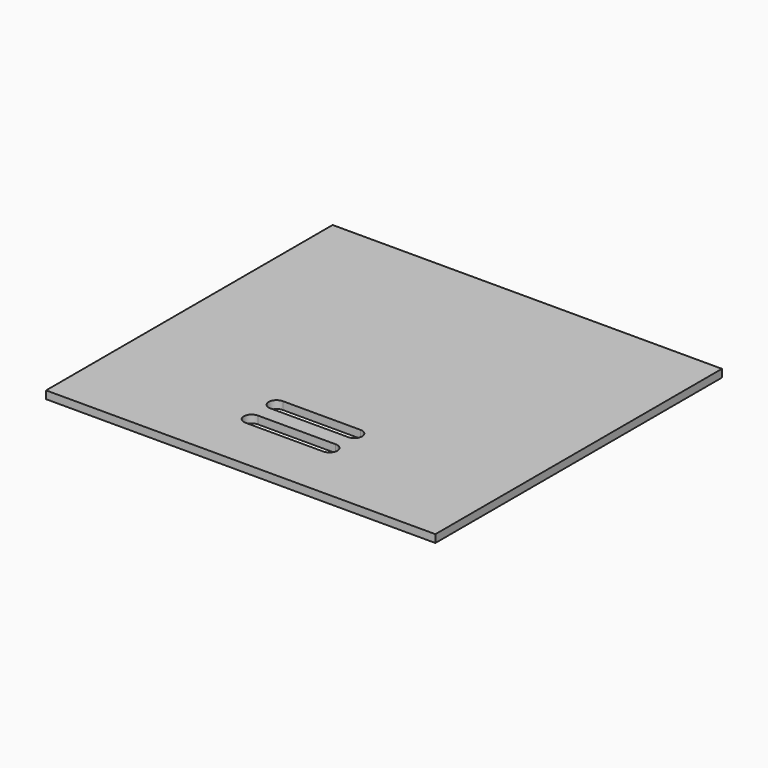
from build123d import *

# Parameters (mm, degrees)
F0_W     = 250
F0_H     = 230
F1_DEPTH = 5


with BuildPart() as f1:
    # F0 (on Top) → F1 (new body)
    with BuildSketch(Plane.XY):
        Rectangle(F0_W, F0_H)
        with BuildLine():
            ThreePointArc((-25, -80), (-30, -75), (-25, -70))
            Line((-25, -70), (25, -70))
            ThreePointArc((25, -70), (30, -75), (25, -80))
            Line((25, -80), (-25, -80))
        make_face(mode=Mode.SUBTRACT)
        with BuildLine():
            ThreePointArc((-25, -60), (-30, -55), (-25, -50))
            Line((-25, -50), (25, -50))
            ThreePointArc((25, -50), (30, -55), (25, -60))
            Line((25, -60), (-25, -60))
        make_face(mode=Mode.SUBTRACT)
    extrude(amount=F1_DEPTH)


solid = f1.part
